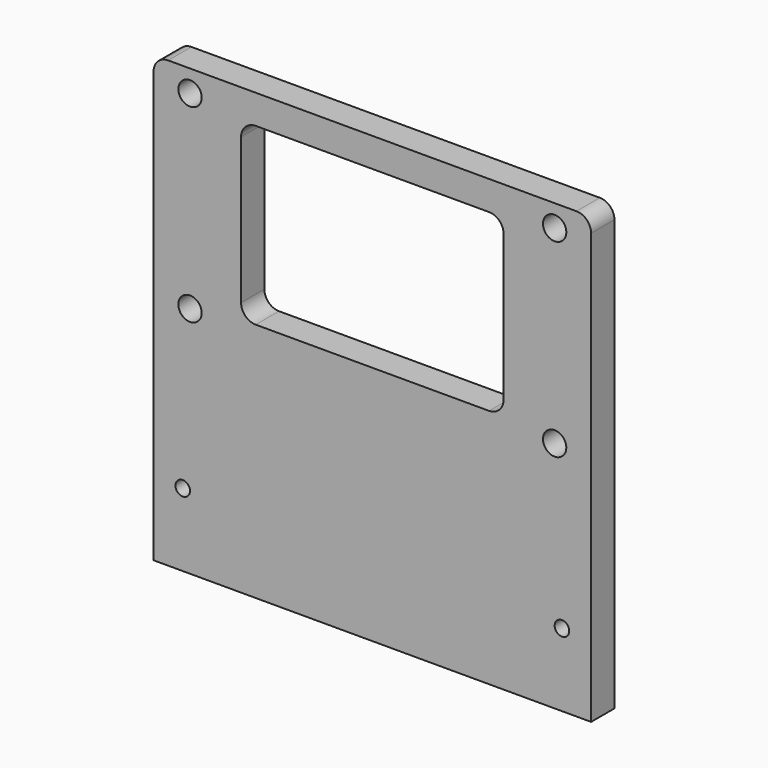
from build123d import *

# Parameters (mm, degrees)
F0_W     = 150
F0_H     = 152.5
F0_R     = 4
F1_DEPTH = 10
F2_R     = 5
F4_D     = 5


with BuildPart() as f1:
    # F0 (on Front) → F1 (new body)
    with BuildSketch(Plane.XZ):
        with Locations((0, -36.25)):
            Rectangle(F0_W, F0_H)
        with Locations((-62.5, -32.5)):
            Circle(F0_R, mode=Mode.SUBTRACT)
        with Locations((-62.5, 32.5)):
            Circle(F0_R, mode=Mode.SUBTRACT)
        with BuildLine():
            Line((-40, 30), (40, 30))
            ThreePointArc((40, 30), (43.5355339059, 28.5355339059), (45, 25))
            Line((45, 25), (45, -25))
            ThreePointArc((45, -25), (43.5355339059, -28.5355339059), (40, -30))
            Line((40, -30), (-40, -30))
            ThreePointArc((-40, -30), (-43.5355339059, -28.5355339059), (-45, -25))
            Line((-45, -25), (-45, 25))
            ThreePointArc((-45, 25), (-43.5355339059, 28.5355339059), (-40, 30))
        make_face(mode=Mode.SUBTRACT)
        with Locations((62.5, -32.5)):
            Circle(F0_R, mode=Mode.SUBTRACT)
        with Locations((62.5, 32.5)):
            Circle(F0_R, mode=Mode.SUBTRACT)
    extrude(amount=F1_DEPTH)

    # F2
    f2_edges = [f1.edges().sort_by_distance(p)[0] for p in [
        (-75, -5, 40),
        (75, -5, 40),
    ]]
    fillet(f2_edges, radius=F2_R)

    # F4 (through all)
    with Locations(Plane.XZ.offset(10)):
        with Locations((65, -87.5), (-65, -87.5)):
            Hole(F4_D / 2)


solid = f1.part
